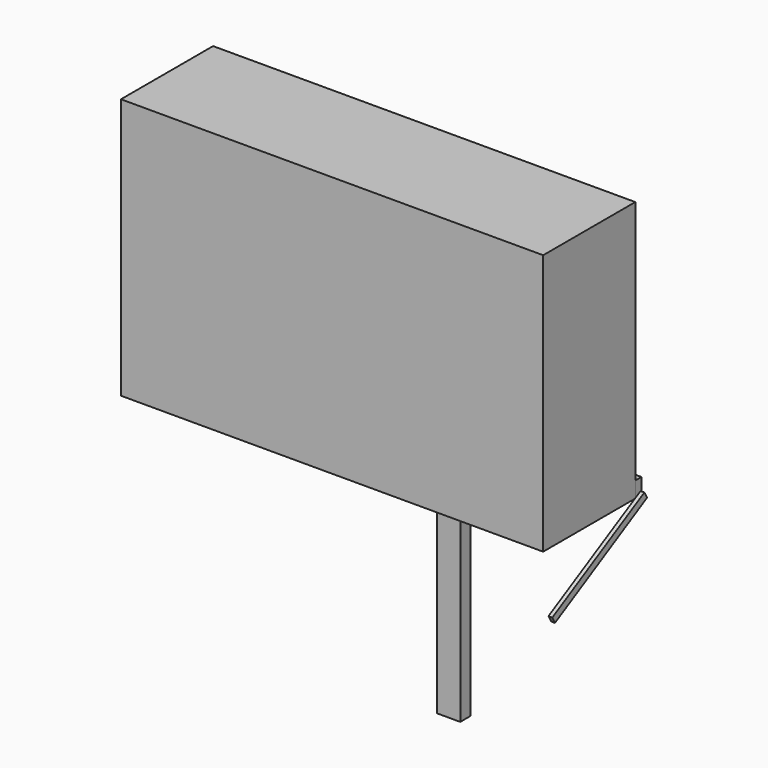
from build123d import *

# Parameters (mm, degrees)
F0_W      = 550
F0_H      = 340
F1_DEPTH  = 150
F2_W      = 260
F2_H      = 20.6977409124
F2_W_2    = 15
F2_H_2    = 30
F3_DEPTH  = 10
F4_DEPTH  = 40
F5_R      = 1.5
F6_DEPTH  = 305.001
F7_W      = 9.9583332986
F7_H      = 30
F7_R      = 1.5
F8_DEPTH  = 30
F9_DEPTH  = 30
F11_DEPTH = 5


with BuildPart() as f1:
    # F0 (on Front) → F1 (new body)
    with BuildSketch(Plane.XZ):
        Rectangle(F0_W, F0_H)
    extrude(amount=F1_DEPTH)


with BuildPart() as f3:
    # F2 (on face) → F3 (new body)
    with BuildSketch(Plane(origin=(0, 0, 0), x_dir=(-1, 0, 0), z_dir=(0, 1, 0))):
        Polygon((55, 80), (-55, 80), (-55, -30), (-15, -30), (15, -30), (55, -30), align=None)
        with BuildLine():
            ThreePointArc((-37.5, 68), (-38.9142135624, 71.4142135624), (-35.5, 70))
            Line((-35.5, 70), (35.5, 70))
            ThreePointArc((35.5, 70), (37.5, 72), (39.5, 70))
            ThreePointArc((39.5, 70), (38.9142135624, 68.5857864376), (37.5, 68))
            Line((37.5, 68), (37.5, -3))
            ThreePointArc((37.5, -3), (38.9142135624, -3.5857864376), (39.5, -5))
            ThreePointArc((39.5, -5), (37.5, -7), (35.5, -5))
            Line((35.5, -5), (-35.5, -5))
            ThreePointArc((-35.5, -5), (-38.9142135624, -6.4142135624), (-37.5, -3))
            Line((-37.5, -3), (-37.5, 68))
        make_face(mode=Mode.SUBTRACT)
        Polygon((15, -30), (-15, -30), (-15, -149.3022590876), (-15, -170), (15, -170), (15, -149.3022590876), align=None)
        with Locations((-145, -159.6511295438)):
            Rectangle(F2_W, F2_H)
        with Locations((145, -159.6511295438)):
            Rectangle(F2_W, F2_H)
        with BuildLine():
            Line((35.5, 70), (-35.5, 70))
            ThreePointArc((-35.5, 70), (-36.0857864376, 68.5857864376), (-37.5, 68))
            Line((-37.5, 68), (-37.5, -3))
            ThreePointArc((-37.5, -3), (-36.0857864376, -3.5857864376), (-35.5, -5))
            Line((-35.5, -5), (35.5, -5))
            ThreePointArc((35.5, -5), (36.0857864376, -3.5857864376), (37.5, -3))
            Line((37.5, -3), (37.5, 68))
            ThreePointArc((37.5, 68), (36.0857864376, 68.5857864376), (35.5, 70))
        make_face()
        with Locations((-22.5, 48)):
            Rectangle(F2_W_2, F2_H_2, mode=Mode.SUBTRACT)
        with Locations((22.5, 48)):
            Rectangle(F2_W_2, F2_H_2, mode=Mode.SUBTRACT)
    extrude(amount=F3_DEPTH)

    # F2 (on face) → F4 (join)
    with BuildSketch(Plane(origin=(0, 0, 0), x_dir=(-1, 0, 0), z_dir=(0, 1, 0))):
        with Locations((-22.5, 48)):
            Rectangle(F2_W_2, F2_H_2)
        with Locations((22.5, 48)):
            Rectangle(F2_W_2, F2_H_2)
    extrude(amount=F4_DEPTH)

    # F5 (on face) → F6 (cut, through all)
    with BuildSketch(Plane.YZ.offset(30)):
        with Locations((33.9936188607, 58.3112341833)):
            Circle(F5_R)
    extrude(amount=-F6_DEPTH, mode=Mode.SUBTRACT)


with BuildPart() as f8:
    # F7 (on face) → F8 (new body)
    with BuildSketch(Plane.YZ.offset(-15)):
        with Locations((35.0208333507, 48)):
            Rectangle(F7_W, F7_H)
        with Locations((33.9936188607, 58.3112341833)):
            Circle(F7_R, mode=Mode.SUBTRACT)
        Polygon((30.0416667014, 68.6337277293), (30.0416667014, 63), (40, 63), align=None)
    extrude(amount=F8_DEPTH)


with BuildPart() as f9:
    # F7 (on face) → F9 (new body)
    with BuildSketch(Plane.YZ.offset(-15)):
        Polygon((56.7165538669, 63), (40, 63), (40, 33), (40, -527), (56.7165538669, -527), align=None)
    extrude(amount=F9_DEPTH)


with BuildPart() as f11:
    # F10 (on face) → F11 (new body)
    with BuildSketch(Plane.YZ.offset(275)):
        Polygon((12.9180778541, -172.7500329115), (8.5770755956, -164.8661443156), (-141.3527813543, -247.4200566054), (-137.0117790958, -255.3039452012), align=None)
    extrude(amount=F11_DEPTH)


solid = Compound([f1.part, f3.part, f8.part, f9.part, f11.part])
